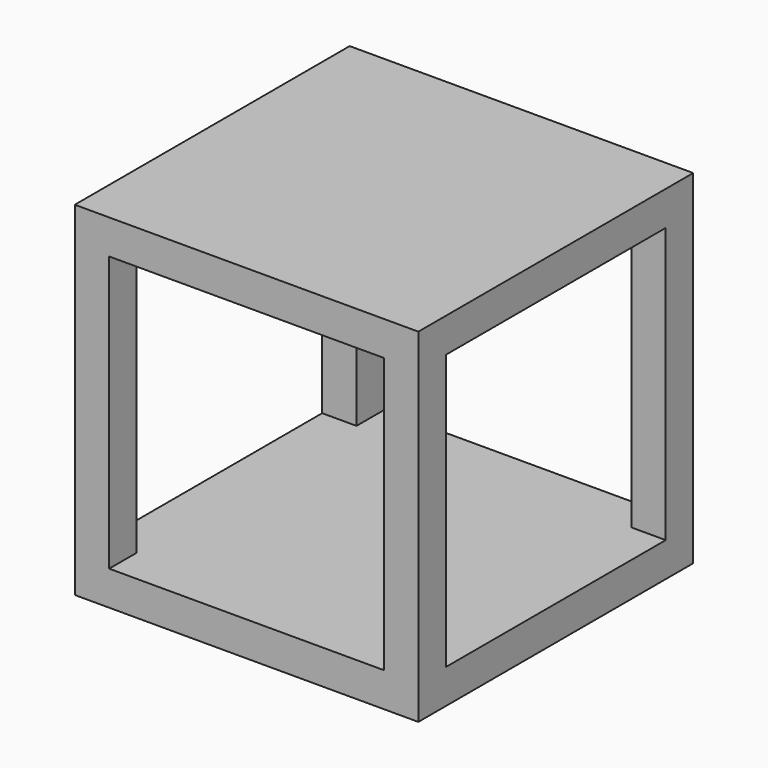
from build123d import *

# Parameters (mm, degrees)
F0_W     = 76.2
F0_H     = 76.2
F1_DEPTH = 76.2
F2_T     = -7.62
F3_W     = 60.96
F3_H     = 60.96
F4_DEPTH = 25.4
F5_W     = 60.96
F5_H     = 60.96
F6_DEPTH = 25.4
F7_W     = 60.96
F7_H     = 60.96
F8_DEPTH = 25.4


with BuildPart() as f1:
    # F0 (on Top) → F1 (new body)
    with BuildSketch(Plane.XY):
        with Locations((-3.61854, -0.157197)):
            Rectangle(F0_W, F0_H)
    extrude(amount=F1_DEPTH)

    # F2
    f2_openings = [f1.faces().sort_by_distance(p)[0] for p in [
        (-3.61854, -38.257197, 38.1),
    ]]
    offset(amount=F2_T, openings=f2_openings)

    # F3 (on face) → F4 (cut)
    with BuildSketch(Plane(origin=(-41.71854, 0, 0), x_dir=(0, -1, 0), z_dir=(-1, 0, 0))):
        with Locations((0.157197, 38.1)):
            Rectangle(F3_W, F3_H)
    extrude(amount=-F4_DEPTH, mode=Mode.SUBTRACT)

    # F5 (on face) → F6 (cut)
    with BuildSketch(Plane(origin=(0, 37.942803, 0), x_dir=(-1, 0, 0), z_dir=(0, 1, 0))):
        with Locations((3.61854, 38.1)):
            Rectangle(F5_W, F5_H)
    extrude(amount=-F6_DEPTH, mode=Mode.SUBTRACT)

    # F7 (on face) → F8 (cut)
    with BuildSketch(Plane.YZ.offset(34.48146)):
        with Locations((-0.157197, 38.1)):
            Rectangle(F7_W, F7_H)
    extrude(amount=-F8_DEPTH, mode=Mode.SUBTRACT)


solid = f1.part
